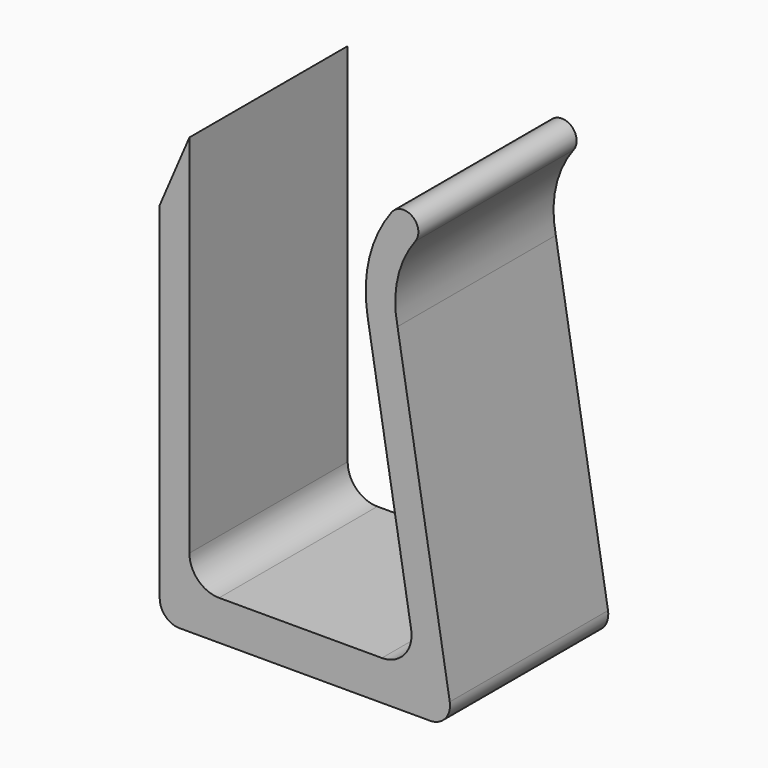
from build123d import *

# Parameters (mm, degrees)
PAD_DEPTH   = 20
FILLET_R    = 3
FILLET001_R = 2


with BuildPart() as part:
    # Sketch → Pad (new body)
    with BuildSketch(Plane.XZ):
        with BuildLine():
            Line((0, 0), (0, 37))
            Line((0, 37), (3, 44))
            Line((3, 44), (3, 4))
            Line((3, 4), (26, 4))
            Line((26, 4), (21, 34))
            ThreePointArc((23.448856, 44), (21.197055, 39.251589), (21, 34))
            ThreePointArc((25.84203, 42.190943), (25.551614, 44.294231), (23.448856, 44))
            ThreePointArc((25.84203, 42.190943), (24.041555, 38.293355), (24.041381, 34))
            Line((24.041381, 34), (29.708048, 0))
            Line((29.708048, 0), (0, 0))
        make_face()
    extrude(amount=PAD_DEPTH)

    # Fillet
    fillet_edges = [part.edges().sort_by_distance(p)[0] for p in [
        (26, -10, 4),
        (3, -10, 4),
    ]]
    fillet(fillet_edges, radius=FILLET_R)

    # Fillet001
    fillet001_edges = [part.edges().sort_by_distance(p)[0] for p in [
        (0, -10, 0),
        (29.708048, -10, 0),
    ]]
    fillet(fillet001_edges, radius=FILLET001_R)


solid = part.part
